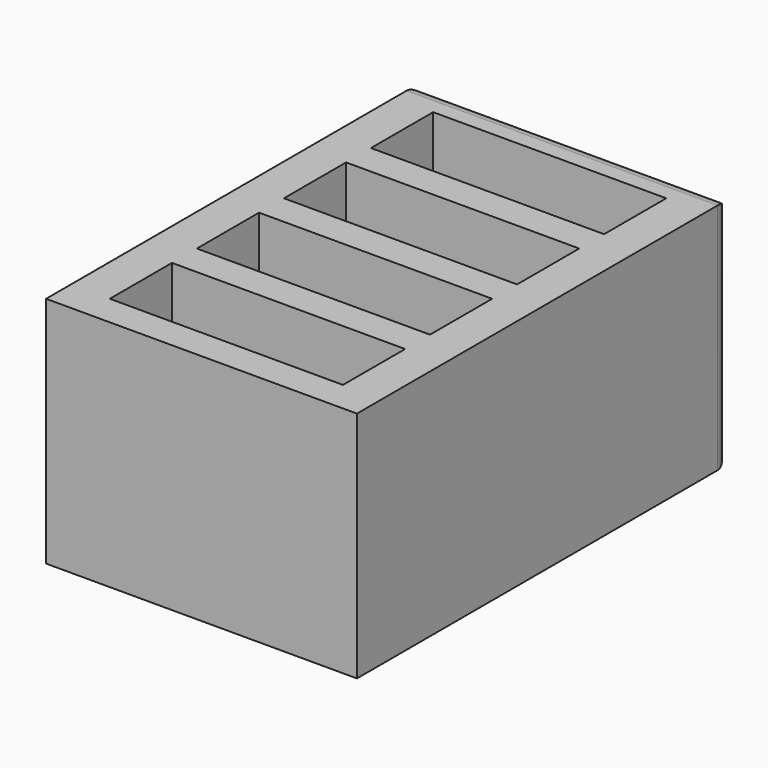
from build123d import *

# Parameters (mm, degrees)
F0_W     = 101.6
F0_H     = 76.2
F1_DEPTH = 152.4
F2_W     = 76.2
F2_H     = 25.4
F3_DEPTH = 50.8
F4_R     = 5.08


with BuildPart() as f1:
    # F0 (on Front) → F1 (new body)
    with BuildSketch(Plane.XZ):
        with Locations((10.387156, -20.946899)):
            Rectangle(F0_W, F0_H)
    extrude(amount=F1_DEPTH)

    # F2 (on face) → F3 (cut)
    with BuildSketch(Plane.XY.offset(17.153101)):
        with Locations((10.387156, -22.86)):
            Rectangle(F2_W, F2_H)
        with Locations((10.387156, -58.42)):
            Rectangle(F2_W, F2_H)
        with Locations((10.387156, -93.98)):
            Rectangle(F2_W, F2_H)
        with Locations((10.387156, -129.54)):
            Rectangle(F2_W, F2_H)
    extrude(amount=-F3_DEPTH, mode=Mode.SUBTRACT)

    # F4
    f4_edges = [f1.edges().sort_by_distance(p)[0] for p in [
        (61.187156, 0, -20.946899),
        (10.387156, 0, -59.046899),
        (10.387156, 0, 17.153101),
        (-40.412844, 0, -20.946899),
    ]]
    fillet(f4_edges, radius=F4_R)


solid = f1.part
